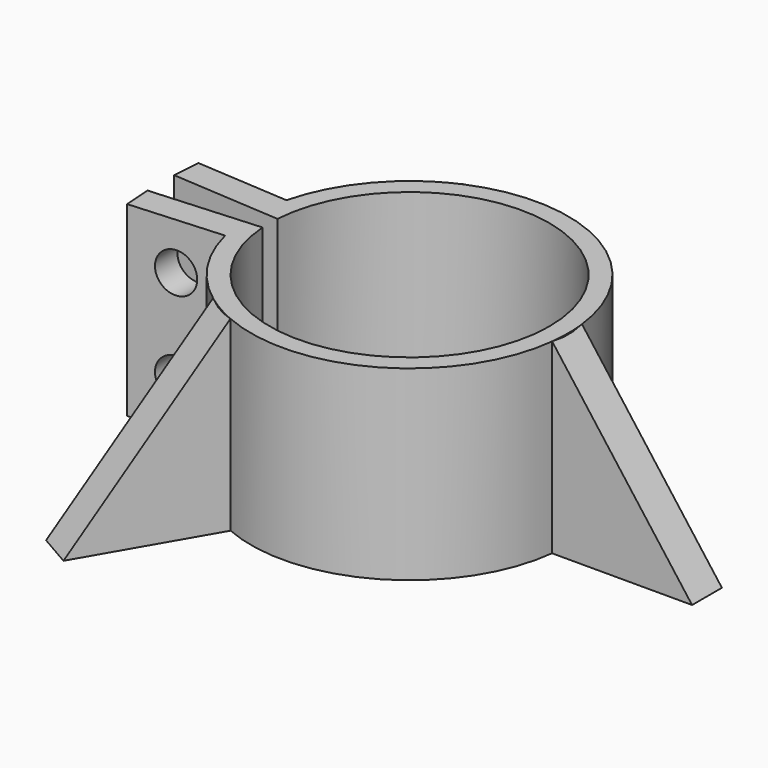
from build123d import *

# Parameters (mm, degrees)
PAD_DEPTH          = 20
SKETCH001_R        = 2.15
POCKET_DEPTH       = 17.001
POCKET_DEPTH_BACK  = -17.001
PAD001_DEPTH       = 2
POLARPATTERN_COUNT = 3
POLARPATTERN_ANGLE = 240


with BuildPart() as part:
    # Sketch → Pad (new body)
    with BuildSketch(Plane.XY):
        with BuildLine():
            ThreePointArc((-14.96663, -1), (15, 0), (-14.96663, 1))
            Line((-14.96663, 1), (-26.673727, 1.782213))
            Line((-26.673727, 1.782213), (-26.473727, 4.775539))
            Line((-26.473727, 4.775539), (-16.495974, 4.108873))
            ThreePointArc((-16.495974, -4.108873), (17, 0), (-16.495974, 4.108873))
            Line((-26.473727, -4.775539), (-16.495974, -4.108873))
            Line((-26.673727, -1.782213), (-26.473727, -4.775539))
            Line((-14.96663, -1), (-26.673727, -1.782213))
        make_face()
    extrude(amount=PAD_DEPTH)

    # Sketch001 → Pocket (cut, two sides)
    with BuildSketch(Plane.XZ) as pocket_sk:
        with Locations((-21.484851, 15)):
            Circle(SKETCH001_R)
        with Locations((-21.484851, 5)):
            Circle(SKETCH001_R)
    extrude(amount=-POCKET_DEPTH, mode=Mode.SUBTRACT)
    extrude(pocket_sk.sketch, amount=-POCKET_DEPTH_BACK, mode=Mode.SUBTRACT)

    # Sketch002 → Pad001 (join, symmetric)
    with BuildSketch(Plane.XZ):
        Polygon((16.9, 20), (16.9, 0), (31.9, 0), align=None)
    pad001 = extrude(amount=PAD001_DEPTH, both=True)

    # PolarPattern: Pad001 ×3 about axis
    polarpattern_axis = Axis((0, 0, 0), (0, 0, 1))
    for i in range(1, POLARPATTERN_COUNT):
        add(pad001.rotate(polarpattern_axis, i * POLARPATTERN_ANGLE / (POLARPATTERN_COUNT - 1)))


solid = part.part
